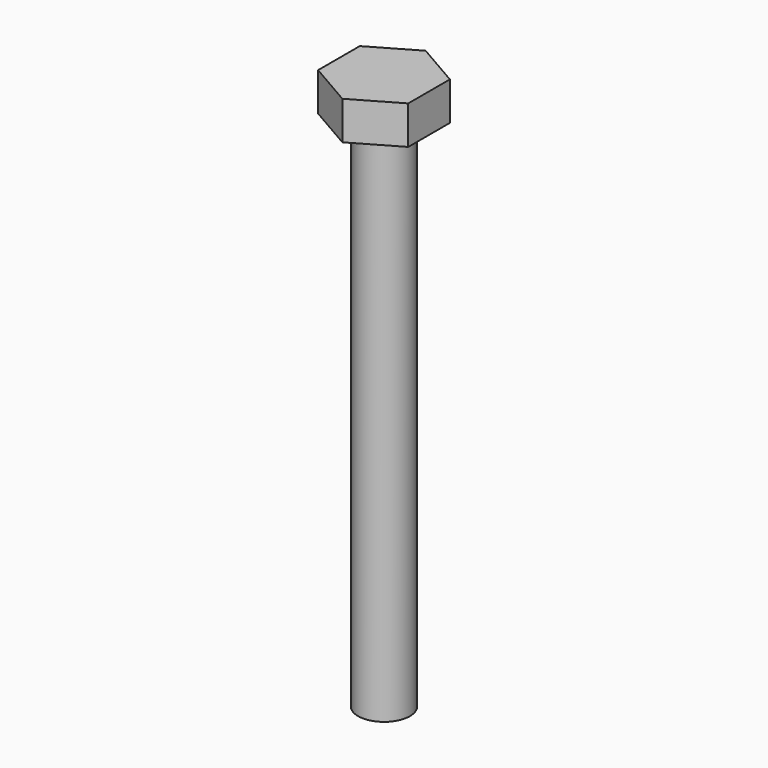
from build123d import *

# Parameters (mm, degrees)
F0_W     = 3.175
F0_H     = 63.5
F3_DEPTH = 4.699


with BuildPart() as f1:
    # F0 (on Front) → F1 (revolve)
    with BuildSketch(Plane.XZ):
        with Locations((1.5875, -31.75)):
            Rectangle(F0_W, F0_H)
    revolve(axis=Axis((0, 0, -31.75), (0, 0, 1)))

    # F2 (on face) → F3 (join)
    with BuildSketch(Plane.XY):
        Polygon((5.5245, -3.189572), (5.5245, 3.189572), (0, 6.379143), (-5.5245, 3.189572), (-5.5245, -3.189572), (0, -6.379143), align=None)
    extrude(amount=F3_DEPTH)


solid = f1.part
